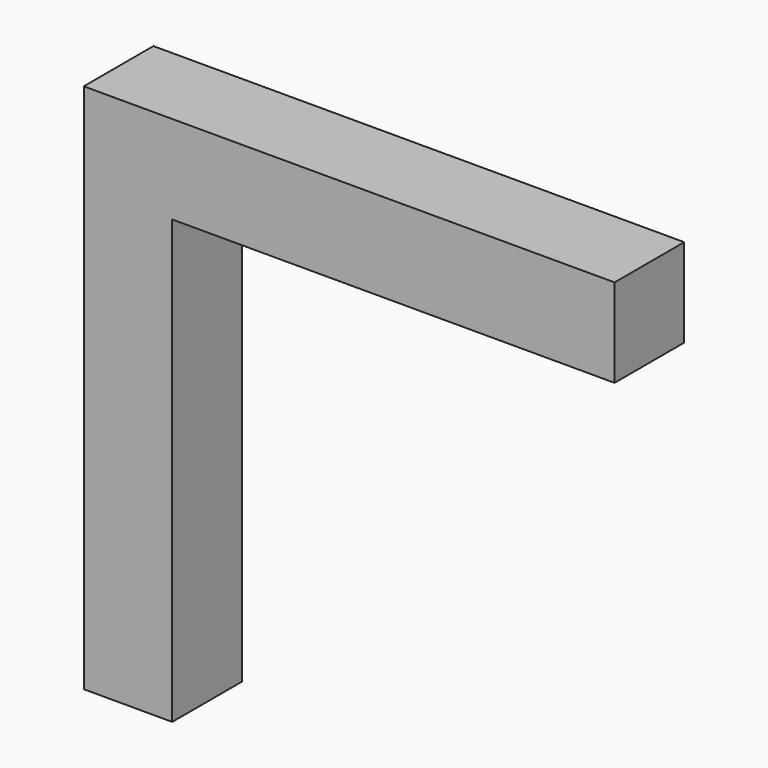
from build123d import *

# Parameters (mm, degrees)
F0_W     = 25.4
F0_H     = 25.4
F0_H_2   = 127
F0_W_2   = 127
F1_DEPTH = 25


with BuildPart() as f1:
    # F0 (on Front) → F1 (new body)
    with BuildSketch(Plane.XZ):
        with Locations((-48.572231, 81.767539)):
            Rectangle(F0_W, F0_H)
        with Locations((-48.572231, 5.567539)):
            Rectangle(F0_W, F0_H_2)
        with Locations((27.627769, 81.767539)):
            Rectangle(F0_W_2, F0_H)
    extrude(amount=F1_DEPTH)


solid = f1.part
